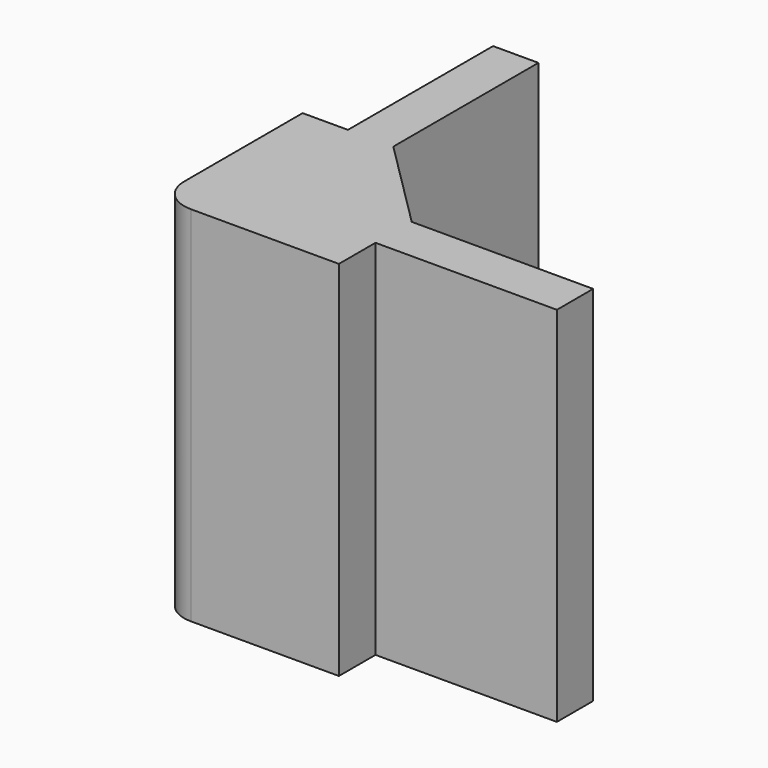
from build123d import *

# Parameters (mm, degrees)
F1_DEPTH = 50.8


with BuildPart() as f1:
    # F0 (on Top) → F1 (new body)
    with BuildSketch(Plane.XY):
        with BuildLine():
            Line((4.327607, 16.73235), (4.327607, 42.128453))
            Line((4.327607, 42.128453), (-2.022393, 42.128453))
            Line((-2.022393, 42.128453), (-2.022393, 16.728453))
            Line((-2.022393, 16.728453), (-8.366409, 16.728453))
            Line((-8.366409, 16.728453), (-8.366409, -4.005756))
            ThreePointArc((-8.366409, -4.005756), (-6.999831, -7.304968), (-3.700619, -8.671547))
            Line((-3.700619, -8.671547), (17.033591, -8.671547))
            Line((17.033591, -8.671547), (17.033591, -2.26923))
            Line((17.033591, -2.26923), (42.433591, -2.26923))
            Line((42.433591, -2.26923), (42.433591, 4.076364))
            Line((42.433591, 4.076364), (17.033591, 4.076364))
            Line((17.033591, 4.076364), (4.327607, 16.73235))
        make_face()
    extrude(amount=F1_DEPTH)


solid = f1.part
